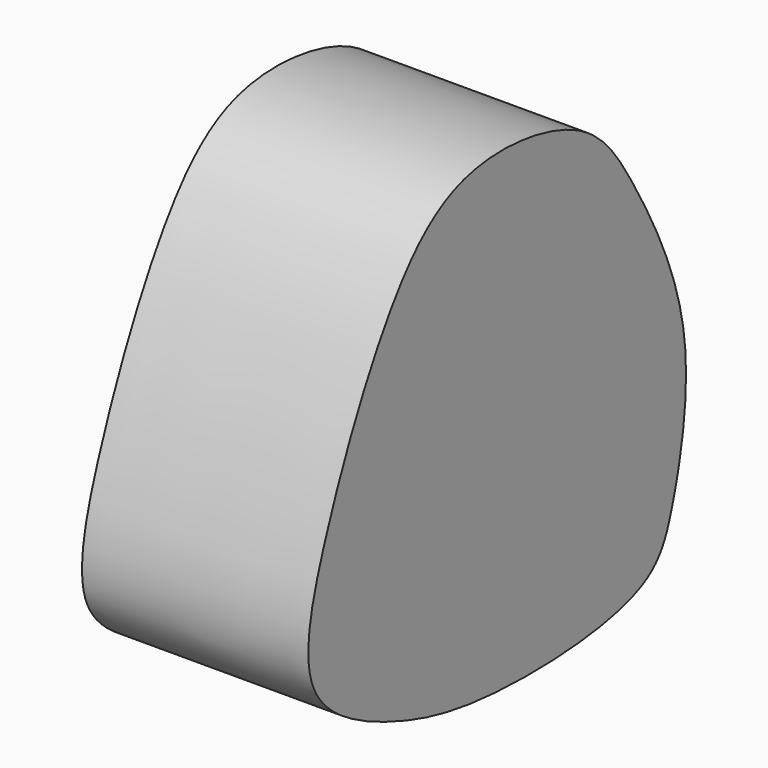
from build123d import *

# Parameters (mm, degrees)
F1_DEPTH = 19.05


with BuildPart() as f1:
    # F0 (on Right) → F1 (new body)
    with BuildSketch(Plane.YZ):
        with BuildLine():
            add(Edge.make_bspline(
                [(8.3608897309, 19.6655775183), (5.2228551537, 21.288358083), (-4.1059101674, 22.5492798834), (-11.8729853819, 15.0927399769), (-18.5189275991, 0.5546490962), (-21.6651385516, -11.3754714569), (-10.8323494438, -16.7968160107), (-0.7337426114, -19.0751502065), (15.9485597711, -18.1999308527), (18.5452829821, -12.278360008), (21.2002780322, 0.4422451844), (14.3524758341, 13.4584082973), (11.0442456301, 18.2779262052), (8.3608897309, 19.6655775183)],
                knots=[0, 0, 0, 0, 0.0926169147, 0.1785016458, 0.2882790587, 0.3765075576, 0.4612604273, 0.5534902688, 0.6590341787, 0.7224592654, 0.8178820373, 0.9208026112, 1, 1, 1, 1], degree=3))
        make_face()
    extrude(amount=F1_DEPTH)


solid = f1.part
